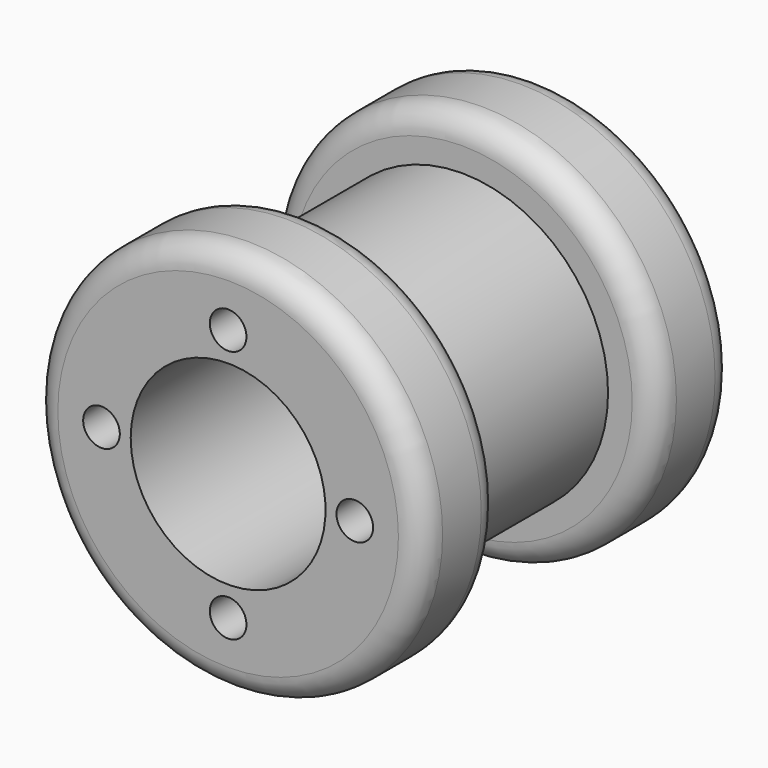
from build123d import *

# Parameters (mm, degrees)
F0_R     = 12.7
F1_DEPTH = 6.35
F2_R     = 9.525
F3_DEPTH = 12.7
F4_R     = 12.7
F5_DEPTH = 6.35
F7_D     = 12.7
F9_D     = 2.3876
F9_DEPTH = 3.175
F9_TIP   = 0.717307407
F10_R    = 1.6002


with BuildPart() as f1:
    # F0 (on Front) → F1 (new body)
    with BuildSketch(Plane.XZ):
        Circle(F0_R)
    extrude(amount=F1_DEPTH)

    # F2 (on face) → F3 (join)
    with BuildSketch(Plane.XZ.offset(6.35)):
        Circle(F2_R)
    extrude(amount=F3_DEPTH)

    # F4 (on face) → F5 (join)
    with BuildSketch(Plane.XZ.offset(19.05)):
        Circle(F4_R)
    extrude(amount=F5_DEPTH)

    # F7 (through all)
    with Locations(Plane.XZ.offset(25.4)):
        with Locations((0, 0)):
            Hole(F7_D / 2)

    # F9
    with Locations(Plane.XZ.offset(25.4)):
        with Locations((0, 8.255), (8.255, 0), (0, -8.255), (-8.255, 0)):
            Hole(F9_D / 2, depth=F9_DEPTH)
            with Locations((0, 0, -(F9_DEPTH + F9_TIP / 2))):  # 118° drill point
                Cone(0, F9_D / 2, F9_TIP, mode=Mode.SUBTRACT)

    # F10
    f10_edges = [f1.edges().sort_by_distance(p)[0] for p in [
        (-12.7, 0, 0),
        (-12.7, -19.05, 0),
        (-12.7, -25.4, 0),
        (-12.7, -6.35, 0),
    ]]
    fillet(f10_edges, radius=F10_R)


solid = f1.part
